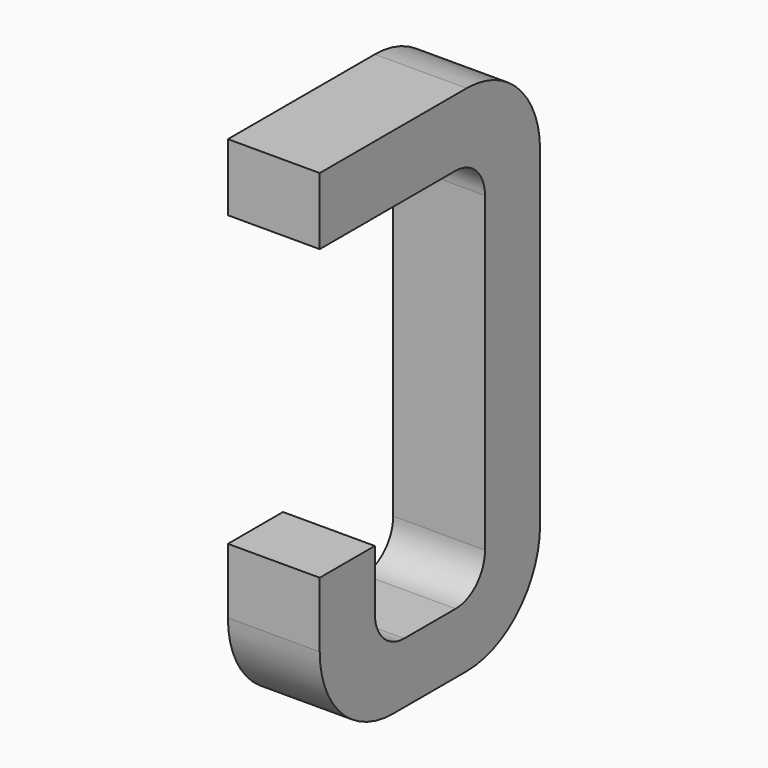
from build123d import *

# Parameters (mm, degrees)
BOX173_W     = 0.5
BOX173_H     = 1.5
BOX173_DEPTH = 2.795
FILLET366_R  = 0.5
FILLET376_R  = 0.5
FILLET371_R  = 0.5
BOX175_W     = 0.75
BOX175_H     = 2.1
BOX175_DEPTH = 1
FILLET359_R  = 0.2
FILLET369_R  = 0.2
FILLET358_R  = 0.2
FILLET361_R  = 0.2
BOX178_W     = 1
BOX178_H     = 1.575
BOX178_DEPTH = 3


with BuildPart() as part:
    # Box173 → Box173 (join)
    with BuildSketch(Plane(origin=(-0.25, 11.125, 0), x_dir=(1, 0, 0), z_dir=(0, 0, 1))):
        with Locations((0.25, 0.75)):
            Rectangle(BOX173_W, BOX173_H)
    extrude(amount=BOX173_DEPTH)

    # Fillet366
    fillet366_edges = [part.edges().sort_by_distance(p)[0] for p in [
        (0, 12.625, 0),
    ]]
    fillet(fillet366_edges, radius=FILLET366_R)

    # Fillet376
    fillet376_edges = [part.edges().sort_by_distance(p)[0] for p in [
        (0, 12.625, 2.795),
    ]]
    fillet(fillet376_edges, radius=FILLET376_R)

    # Fillet371
    fillet371_edges = [part.edges().sort_by_distance(p)[0] for p in [
        (0, 11.125, 0),
    ]]
    fillet(fillet371_edges, radius=FILLET371_R)

    # Box175 → Box175 (cut)
    with BuildSketch(Plane(origin=(-0.5, 11.5, 0.33), x_dir=(0, 1, 0), z_dir=(1, 0, 0))):
        with Locations((0.375, 1.05)):
            Rectangle(BOX175_W, BOX175_H)
    extrude(amount=BOX175_DEPTH, mode=Mode.SUBTRACT)

    # Fillet359
    fillet359_edges = [part.edges().sort_by_distance(p)[0] for p in [
        (0, 11.5, 0.33),
    ]]
    fillet(fillet359_edges, radius=FILLET359_R)

    # Fillet369
    fillet369_edges = [part.edges().sort_by_distance(p)[0] for p in [
        (0, 12.25, 0.33),
    ]]
    fillet(fillet369_edges, radius=FILLET369_R)

    # Fillet358
    fillet358_edges = [part.edges().sort_by_distance(p)[0] for p in [
        (0, 11.5, 2.43),
    ]]
    fillet(fillet358_edges, radius=FILLET358_R)

    # Fillet361
    fillet361_edges = [part.edges().sort_by_distance(p)[0] for p in [
        (0, 12.25, 2.43),
    ]]
    fillet(fillet361_edges, radius=FILLET361_R)

    # Box178 → Box178 (cut)
    with BuildSketch(Plane(origin=(-1, 11, 0.855), x_dir=(0, 1, 0), z_dir=(1, 0, 0))):
        with Locations((0.5, 0.7875)):
            Rectangle(BOX178_W, BOX178_H)
    extrude(amount=BOX178_DEPTH, mode=Mode.SUBTRACT)


with BuildPart() as part_1:
    # Body052 placement: moved
    add(part.part.moved(Location((5.08, 0, 0))))


solid = part_1.part
